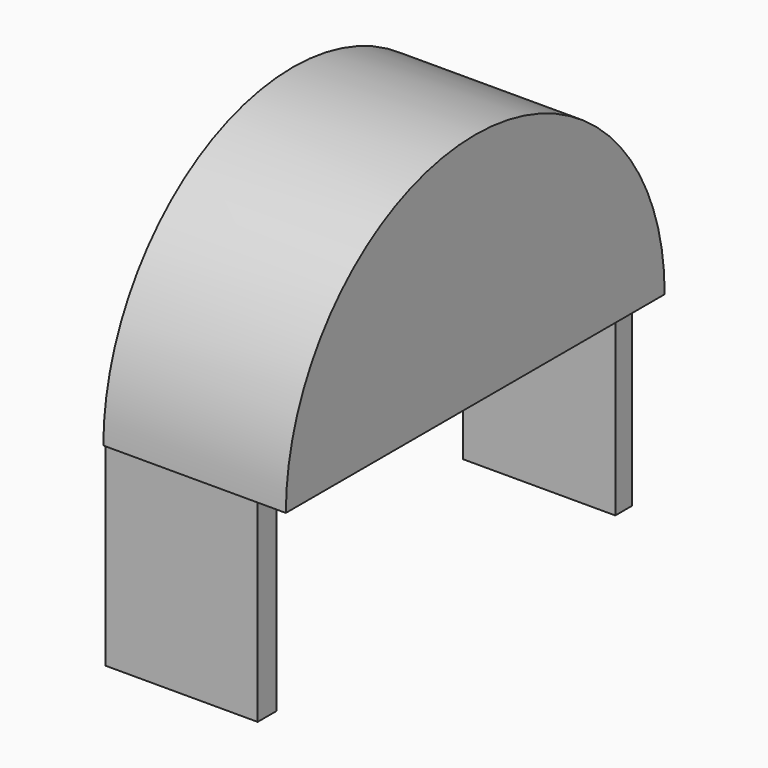
from build123d import *

# Parameters (mm, degrees)
F1_DEPTH = 5.08
F2_DEPTH = 25.4
F3_W     = 3.4888088703
F3_H     = 32.5622074306
F3_W_2   = 3.9539821446
F4_DEPTH = 25.4


with BuildPart() as f1:
    # F0 (on Right) → F1 (new body)
    with BuildSketch(Plane.YZ):
        with BuildLine():
            Line((-39.5398288965, 0), (39.5398288965, 0))
            ThreePointArc((39.5398288965, 0), (0, 39.5398288965), (-39.5398288965, 0))
        make_face()
    extrude(amount=F1_DEPTH)

    # F2 (add): a face of the model
    f2_faces = [f1.faces().sort_by_distance(p)[0] for p in [
        (5.08, 0, 16.781224581),
    ]]
    extrude(f2_faces, amount=F2_DEPTH)

    # F3 (on Right) → F4 (join)
    with BuildSketch(Plane.YZ):
        with Locations((37.3302474618, -16.2811037153)):
            Rectangle(F3_W, F3_H)
        with Locations((-37.0976608247, -16.2811037153)):
            Rectangle(F3_W_2, F3_H)
    extrude(amount=F4_DEPTH)


solid = f1.part
